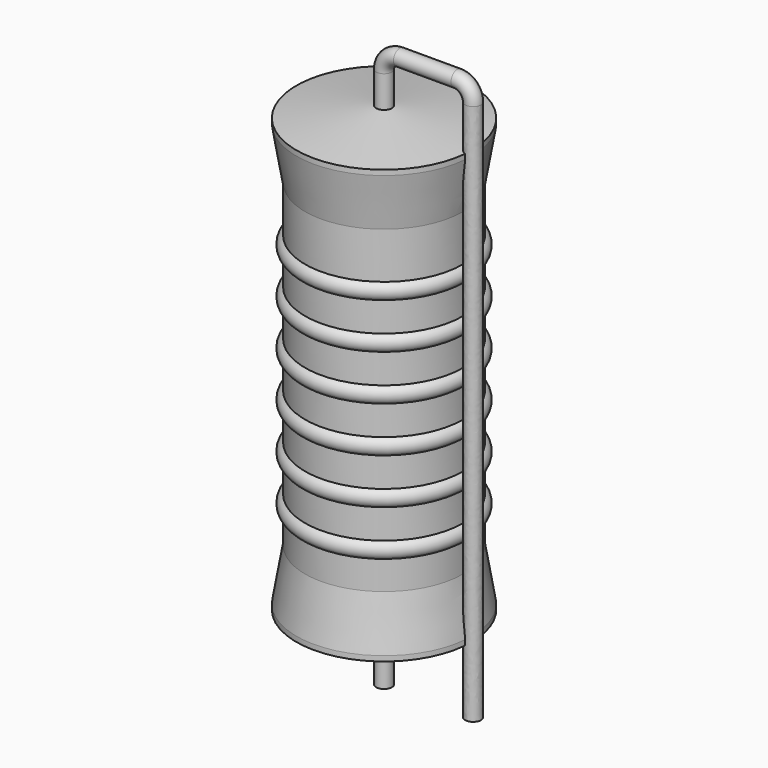
from build123d import *

# Parameters (mm, degrees)
SKETCH_R = 0.45


with BuildPart() as revolution:
    # Sketch002 → Revolution (revolve)
    with BuildSketch(Plane.XZ):
        Polygon((0, 0.1), (0, 26.1), (0.3375, 26.1), (5, 25.45), (5, 25.1575), (4.5, 22.2), (4.5, 4), (5, 1.0425), (5, 0.75), (0.3375, 0.1), align=None)
    revolve(axis=Axis((0, 0, 0), (0, 0, 1)))


with BuildPart() as revolution001:
    # Sketch003 → Revolution001 (revolve)
    with BuildSketch(Plane.XZ):
        with BuildLine():
            Line((4, 21.2), (4, 4))
            Line((4, 4), (4.3, 4))
            Line((4.3, 4), (4.3, 5.6))
            ThreePointArc((4.3, 5.6), (4.8, 6.1), (4.3, 6.6))
            Line((4.3, 6.6), (4.3, 8.2))
            ThreePointArc((4.3, 8.2), (4.8, 8.7), (4.3, 9.2))
            Line((4.3, 9.2), (4.3, 10.8))
            ThreePointArc((4.3, 10.8), (4.8, 11.3), (4.3, 11.8))
            Line((4.3, 11.8), (4.3, 13.4))
            ThreePointArc((4.3, 13.4), (4.8, 13.9), (4.3, 14.4))
            Line((4.3, 14.4), (4.3, 16))
            ThreePointArc((4.3, 16), (4.8, 16.5), (4.3, 17))
            Line((4.3, 17), (4.3, 18.6))
            ThreePointArc((4.3, 18.6), (4.8, 19.1), (4.3, 19.6))
            Line((4.3, 21.2), (4.3, 19.6))
            Line((4, 21.2), (4.3, 21.2))
        make_face()
    revolve(axis=Axis((0, 0, 0), (0, 0, 1)))


with BuildPart() as obj1:
    # Sweep: sweep along a path in Sketch001
    with BuildLine(Plane.XZ) as sweep_path:
        Line((0, -3), (0, 27.9))
        ThreePointArc((0, 27.9), (0.263599, 28.536391), (0.899987, 28.8))
        Line((0.899987, 28.8), (4.18, 28.8))
        ThreePointArc((4.18, 28.8), (4.816396, 28.536396), (5.08, 27.9))
        Line((5.08, 27.9), (5.08, -3))
    # Sketch → Sweep (sweep)
    with BuildSketch(Plane.XY.offset(-2)):
        Circle(SKETCH_R)
    sweep(path=sweep_path.line)

    # obj1: union Revolution, Revolution001
    add(revolution.part)
    add(revolution001.part)


solid = obj1.part
